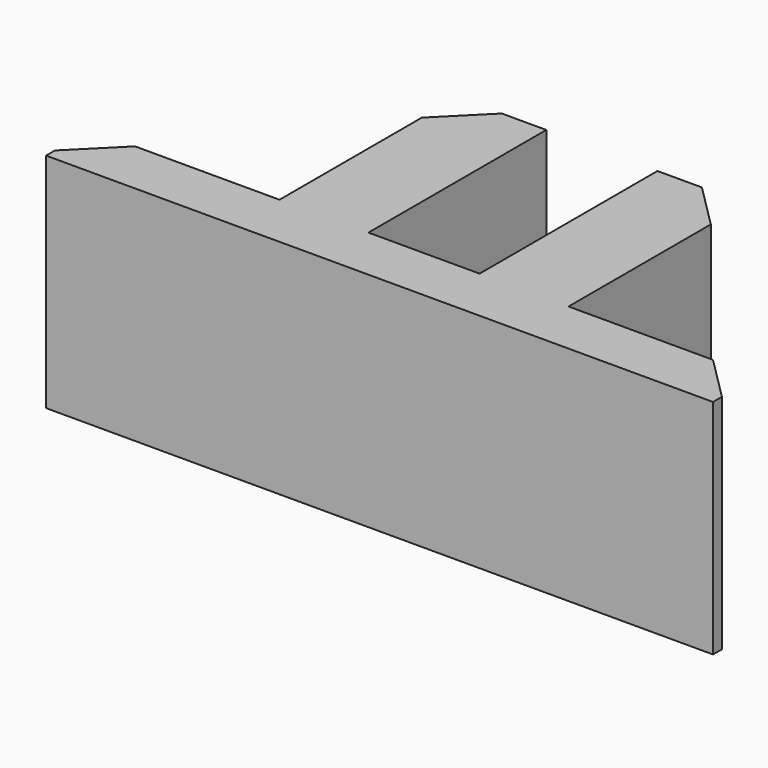
from build123d import *

# Parameters (mm, degrees)
F1_DEPTH = 10
F2_SIZE  = 2


with BuildPart() as f1:
    # F0 (on Top) → F1 (new body)
    with BuildSketch(Plane.XY):
        Polygon((-15, 0), (0, 0), (15, 0), (15, 2.5), (6.5, 2.5), (6.5, 12.5), (2.5, 12.5), (2.5, 2.5), (0, 2.5), (-2.5, 2.5), (-2.5, 12.5), (-6.5, 12.5), (-6.5, 2.5), (-15, 2.5), align=None)
    extrude(amount=F1_DEPTH)

    # F2
    f2_edges = [f1.edges().sort_by_distance(p)[0] for p in [
        (-6.5, 12.5, 5),
        (-15, 2.5, 5),
        (6.5, 12.5, 5),
        (15, 2.5, 5),
    ]]
    chamfer(f2_edges, length=F2_SIZE)


solid = f1.part
